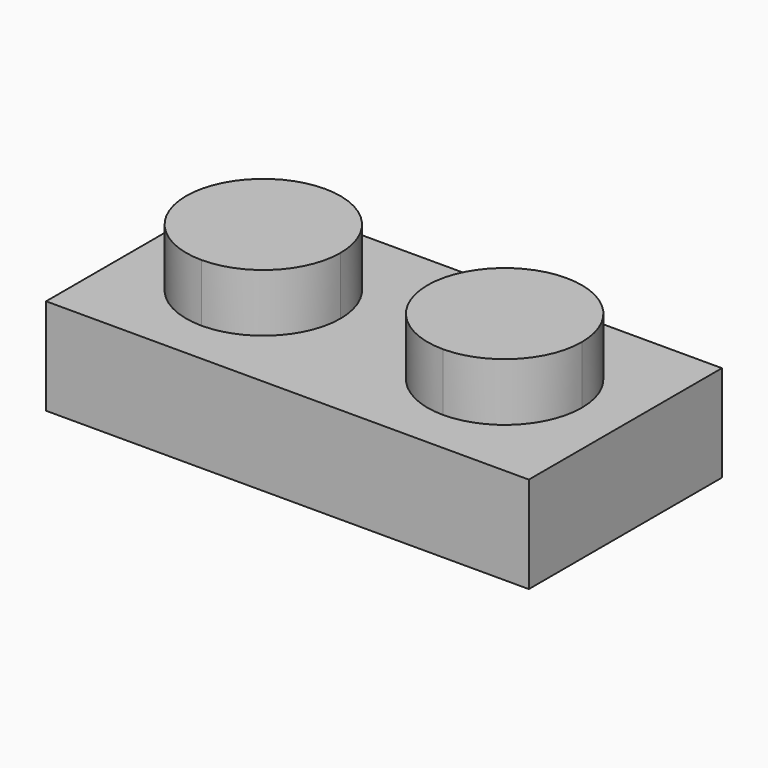
from build123d import *

# Parameters (mm, degrees)
F1_DEPTH = 3.175
F2_DEPTH = 5.08
F3_T     = -1.6002


with BuildPart() as f1:
    # F0 (on Top) → F1 (new body)
    with BuildSketch(Plane.XY):
        with BuildLine():
            Line((-53.3784843279, -17.9285755823), (-57.3535843279, -17.9285755823))
            Line((-57.3535843279, -17.9285755823), (-57.3535843279, -25.8787755823))
            Line((-57.3535843279, -25.8787755823), (-53.3784843279, -25.8787755823))
            Line((-53.3784843279, -25.8787755823), (-53.3784843279, -24.4436755823))
            ThreePointArc((-53.3784843279, -24.4436755823), (-55.9184843279, -21.9036755823), (-53.3784843279, -19.3636755823))
            Line((-53.3784843279, -19.3636755823), (-53.3784843279, -17.9285755823))
        make_face()
        with BuildLine():
            Line((-45.4282843279, -17.9285755823), (-53.3784843279, -17.9285755823))
            Line((-53.3784843279, -17.9285755823), (-53.3784843279, -19.3636755823))
            ThreePointArc((-53.3784843279, -19.3636755823), (-51.5824331037, -20.1076243581), (-50.8384843279, -21.9036755823))
            ThreePointArc((-50.8384843279, -21.9036755823), (-51.5824331037, -23.6997268065), (-53.3784843279, -24.4436755823))
            Line((-53.3784843279, -24.4436755823), (-53.3784843279, -25.8787755823))
            Line((-53.3784843279, -25.8787755823), (-45.4282843279, -25.8787755823))
            Line((-45.4282843279, -25.8787755823), (-45.4282843279, -24.4436755823))
            ThreePointArc((-45.4282843279, -24.4436755823), (-47.9682843279, -21.9036755823), (-45.4282843279, -19.3636755823))
            Line((-45.4282843279, -19.3636755823), (-45.4282843279, -17.9285755823))
        make_face()
        with BuildLine():
            Line((-41.4531843279, -17.9285755823), (-45.4282843279, -17.9285755823))
            Line((-45.4282843279, -17.9285755823), (-45.4282843279, -19.3636755823))
            ThreePointArc((-45.4282843279, -19.3636755823), (-43.6322331037, -20.1076243581), (-42.8882843279, -21.9036755823))
            ThreePointArc((-42.8882843279, -21.9036755823), (-43.6322331037, -23.6997268065), (-45.4282843279, -24.4436755823))
            Line((-45.4282843279, -24.4436755823), (-45.4282843279, -25.8787755823))
            Line((-45.4282843279, -25.8787755823), (-41.4531843279, -25.8787755823))
            Line((-41.4531843279, -25.8787755823), (-41.4531843279, -17.9285755823))
        make_face()
        with BuildLine():
            Line((-45.4282843279, -24.4436755823), (-45.4282843279, -19.3636755823))
            ThreePointArc((-45.4282843279, -19.3636755823), (-47.9682843279, -21.9036755823), (-45.4282843279, -24.4436755823))
        make_face()
        with BuildLine():
            ThreePointArc((-42.8882843279, -21.9036755823), (-43.6322331037, -20.1076243581), (-45.4282843279, -19.3636755823))
            Line((-45.4282843279, -19.3636755823), (-45.4282843279, -24.4436755823))
            ThreePointArc((-45.4282843279, -24.4436755823), (-43.6322331037, -23.6997268065), (-42.8882843279, -21.9036755823))
        make_face()
        with BuildLine():
            ThreePointArc((-50.8384843279, -21.9036755823), (-51.5824331037, -20.1076243581), (-53.3784843279, -19.3636755823))
            Line((-53.3784843279, -19.3636755823), (-53.3784843279, -24.4436755823))
            ThreePointArc((-53.3784843279, -24.4436755823), (-51.5824331037, -23.6997268065), (-50.8384843279, -21.9036755823))
        make_face()
        with BuildLine():
            Line((-53.3784843279, -24.4436755823), (-53.3784843279, -19.3636755823))
            ThreePointArc((-53.3784843279, -19.3636755823), (-55.9184843279, -21.9036755823), (-53.3784843279, -24.4436755823))
        make_face()
    extrude(amount=F1_DEPTH)

    # F0 (on Top) → F2 (join)
    with BuildSketch(Plane.XY):
        with BuildLine():
            Line((-53.3784843279, -24.4436755823), (-53.3784843279, -19.3636755823))
            ThreePointArc((-53.3784843279, -19.3636755823), (-55.9184843279, -21.9036755823), (-53.3784843279, -24.4436755823))
        make_face()
        with BuildLine():
            ThreePointArc((-50.8384843279, -21.9036755823), (-51.5824331037, -20.1076243581), (-53.3784843279, -19.3636755823))
            Line((-53.3784843279, -19.3636755823), (-53.3784843279, -24.4436755823))
            ThreePointArc((-53.3784843279, -24.4436755823), (-51.5824331037, -23.6997268065), (-50.8384843279, -21.9036755823))
        make_face()
        with BuildLine():
            Line((-45.4282843279, -24.4436755823), (-45.4282843279, -19.3636755823))
            ThreePointArc((-45.4282843279, -19.3636755823), (-47.9682843279, -21.9036755823), (-45.4282843279, -24.4436755823))
        make_face()
        with BuildLine():
            ThreePointArc((-42.8882843279, -21.9036755823), (-43.6322331037, -20.1076243581), (-45.4282843279, -19.3636755823))
            Line((-45.4282843279, -19.3636755823), (-45.4282843279, -24.4436755823))
            ThreePointArc((-45.4282843279, -24.4436755823), (-43.6322331037, -23.6997268065), (-42.8882843279, -21.9036755823))
        make_face()
    extrude(amount=F2_DEPTH)

    # F3
    f3_openings = [f1.faces().sort_by_distance(p)[0] for p in [
        (-49.403384, -21.903676, 0),
    ]]
    offset(amount=F3_T, openings=f3_openings, kind=Kind.INTERSECTION)


solid = f1.part
